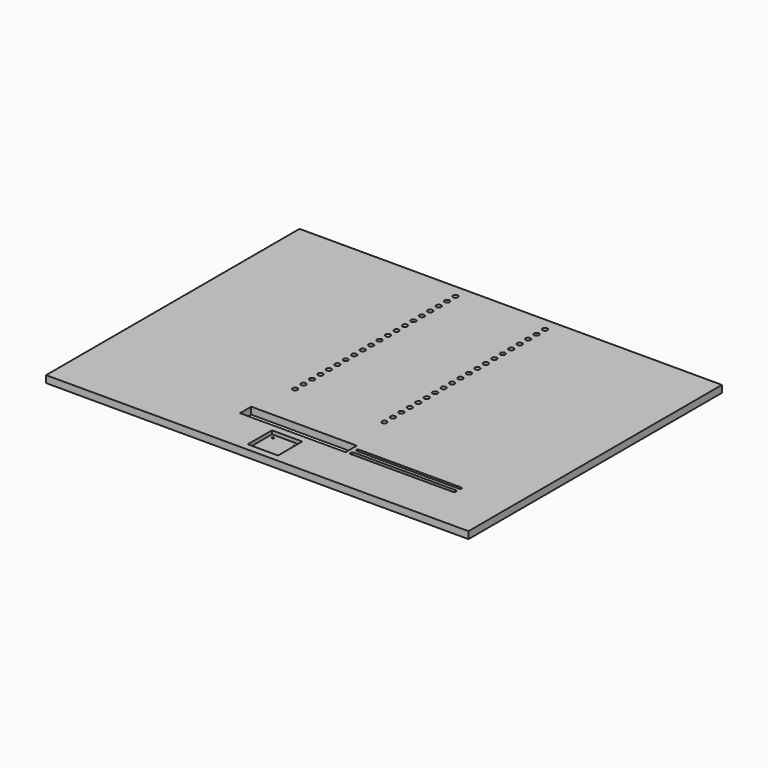
from build123d import *

# Parameters (mm, degrees)
F0_W      = 600
F0_H      = 450
F1_DEPTH  = 10
F2_R      = 3.5
F3_DEPTH  = 10
F4_W      = 43
F4_H      = 43
F4_R      = 1.5
F5_DEPTH  = 5
F6_DEPTH  = 10
F4_W_2    = 150
F4_H_2    = 20
F7_DEPTH  = 10
F8_DEPTH  = 10
F9_DEPTH  = 10
F10_DEPTH = 10


with BuildPart() as f1:
    # F0 (on Top) → F1 (new body)
    with BuildSketch(Plane.XY):
        Rectangle(F0_W, F0_H)
    extrude(amount=F1_DEPTH)

    # F2 (on face) → F3 (cut)
    with BuildSketch(Plane.XY.offset(10)):
        with Locations((-63.5, 206.5)):
            Circle(F2_R)
        with Locations((-63.5, 191.5)):
            Circle(F2_R)
        with Locations((-63.5, 176.5)):
            Circle(F2_R)
        with Locations((-63.5, 161.5)):
            Circle(F2_R)
        with Locations((-63.5, 146.5)):
            Circle(F2_R)
        with Locations((-63.5, 131.5)):
            Circle(F2_R)
        with Locations((-63.5, 116.5)):
            Circle(F2_R)
        with Locations((-63.5, 101.5)):
            Circle(F2_R)
        with Locations((-63.5, 86.5)):
            Circle(F2_R)
        with Locations((-63.5, 71.5)):
            Circle(F2_R)
        with Locations((-63.5, 56.5)):
            Circle(F2_R)
        with Locations((-63.5, 41.5)):
            Circle(F2_R)
        with Locations((-63.5, 26.5)):
            Circle(F2_R)
        with Locations((-63.5, 11.5)):
            Circle(F2_R)
        with Locations((-63.5, -3.5)):
            Circle(F2_R)
        with Locations((-63.5, -18.5)):
            Circle(F2_R)
        with Locations((-63.5, -33.5)):
            Circle(F2_R)
        with Locations((-63.5, -48.5)):
            Circle(F2_R)
        with Locations((-63.5, -63.5)):
            Circle(F2_R)
        with Locations((-63.5, -78.5)):
            Circle(F2_R)
        with Locations((63.5, 191.5)):
            Circle(F2_R)
        with Locations((63.5, 86.5)):
            Circle(F2_R)
        with Locations((63.5, 41.5)):
            Circle(F2_R)
        with Locations((63.5, 26.5)):
            Circle(F2_R)
        with Locations((63.5, 101.5)):
            Circle(F2_R)
        with Locations((63.5, -18.5)):
            Circle(F2_R)
        with Locations((63.5, 131.5)):
            Circle(F2_R)
        with Locations((63.5, -63.5)):
            Circle(F2_R)
        with Locations((63.5, 71.5)):
            Circle(F2_R)
        with Locations((63.5, 161.5)):
            Circle(F2_R)
        with Locations((63.5, 176.5)):
            Circle(F2_R)
        with Locations((63.5, -48.5)):
            Circle(F2_R)
        with Locations((63.5, 11.5)):
            Circle(F2_R)
        with Locations((63.5, -78.5)):
            Circle(F2_R)
        with Locations((63.5, -33.5)):
            Circle(F2_R)
        with Locations((63.5, 146.5)):
            Circle(F2_R)
        with Locations((63.5, -3.5)):
            Circle(F2_R)
        with Locations((63.5, 116.5)):
            Circle(F2_R)
        with Locations((63.5, 56.5)):
            Circle(F2_R)
        with Locations((63.5, 206.5)):
            Circle(F2_R)
    extrude(amount=-F3_DEPTH, mode=Mode.SUBTRACT)

    # F4 (on face) → F5 (cut)
    with BuildSketch(Plane.XY.offset(10)):
        with Locations((0, -193.5)):
            Rectangle(F4_W, F4_H)
        with Locations((-15.5, -209)):
            Circle(F4_R, mode=Mode.SUBTRACT)
        with Locations((-15.5, -178)):
            Circle(F4_R, mode=Mode.SUBTRACT)
        with Locations((15.5, -209)):
            Circle(F4_R, mode=Mode.SUBTRACT)
        with Locations((15.5, -178)):
            Circle(F4_R, mode=Mode.SUBTRACT)
    extrude(amount=-F5_DEPTH, mode=Mode.SUBTRACT)

    # F6 (cut): faces of the model
    f6_faces = [f1.faces().sort_by_distance(p)[0] for p in [
        (15.5, -209, 10),
        (15.5, -178, 10),
        (-15.5, -178, 10),
        (-15.5, -209, 10),
    ]]
    extrude(f6_faces, amount=-F6_DEPTH, mode=Mode.SUBTRACT)

    # F4 (on face) → F7 (cut)
    with BuildSketch(Plane.XY.offset(10)):
        with Locations((0, -152)):
            Rectangle(F4_W_2, F4_H_2)
    extrude(amount=-F7_DEPTH, mode=Mode.SUBTRACT)

    # F4 (on face) → F8 (cut)
    with BuildSketch(Plane.XY.offset(10)):
        with BuildLine():
            Line((227.5, -157), (82.5, -157))
            ThreePointArc((82.5, -157), (80, -159.5), (82.5, -162))
            Line((82.5, -162), (227.5, -162))
            ThreePointArc((227.5, -162), (230, -159.5), (227.5, -157))
        make_face()
    extrude(amount=-F8_DEPTH, mode=Mode.SUBTRACT)

    # F4 (on face) → F9 (cut)
    with BuildSketch(Plane.XY.offset(10)):
        with BuildLine():
            ThreePointArc((83, -148), (81, -150), (83, -152))
            Line((83, -152), (228, -152))
            ThreePointArc((228, -152), (230, -150), (228, -148))
            Line((228, -148), (83, -148))
        make_face()
    extrude(amount=-F9_DEPTH, mode=Mode.SUBTRACT)

    # F2 (on face) → F10 (cut)
    with BuildSketch(Plane.XY.offset(10)):
        with Locations((-63.5, 206.5)):
            Circle(F2_R)
        with Locations((-63.5, 191.5)):
            Circle(F2_R)
        with Locations((-63.5, 176.5)):
            Circle(F2_R)
        with Locations((-63.5, 161.5)):
            Circle(F2_R)
        with Locations((-63.5, 146.5)):
            Circle(F2_R)
        with Locations((-63.5, 131.5)):
            Circle(F2_R)
        with Locations((-63.5, 116.5)):
            Circle(F2_R)
        with Locations((-63.5, 101.5)):
            Circle(F2_R)
        with Locations((-63.5, 86.5)):
            Circle(F2_R)
        with Locations((-63.5, 71.5)):
            Circle(F2_R)
        with Locations((-63.5, 56.5)):
            Circle(F2_R)
        with Locations((-63.5, 41.5)):
            Circle(F2_R)
        with Locations((-63.5, 26.5)):
            Circle(F2_R)
        with Locations((-63.5, 11.5)):
            Circle(F2_R)
        with Locations((-63.5, -3.5)):
            Circle(F2_R)
        with Locations((-63.5, -18.5)):
            Circle(F2_R)
        with Locations((-63.5, -33.5)):
            Circle(F2_R)
        with Locations((-63.5, -48.5)):
            Circle(F2_R)
        with Locations((-63.5, -63.5)):
            Circle(F2_R)
        with Locations((-63.5, -78.5)):
            Circle(F2_R)
        with Locations((63.5, 191.5)):
            Circle(F2_R)
        with Locations((63.5, 86.5)):
            Circle(F2_R)
        with Locations((63.5, 41.5)):
            Circle(F2_R)
        with Locations((63.5, 26.5)):
            Circle(F2_R)
        with Locations((63.5, 101.5)):
            Circle(F2_R)
        with Locations((63.5, -18.5)):
            Circle(F2_R)
        with Locations((63.5, 131.5)):
            Circle(F2_R)
        with Locations((63.5, -63.5)):
            Circle(F2_R)
        with Locations((63.5, 71.5)):
            Circle(F2_R)
        with Locations((63.5, 161.5)):
            Circle(F2_R)
        with Locations((63.5, 176.5)):
            Circle(F2_R)
        with Locations((63.5, -48.5)):
            Circle(F2_R)
        with Locations((63.5, 11.5)):
            Circle(F2_R)
        with Locations((63.5, -78.5)):
            Circle(F2_R)
        with Locations((63.5, -33.5)):
            Circle(F2_R)
        with Locations((63.5, 146.5)):
            Circle(F2_R)
        with Locations((63.5, -3.5)):
            Circle(F2_R)
        with Locations((63.5, 116.5)):
            Circle(F2_R)
        with Locations((63.5, 56.5)):
            Circle(F2_R)
        with Locations((63.5, 206.5)):
            Circle(F2_R)
    extrude(amount=-F10_DEPTH, mode=Mode.SUBTRACT)


solid = f1.part
